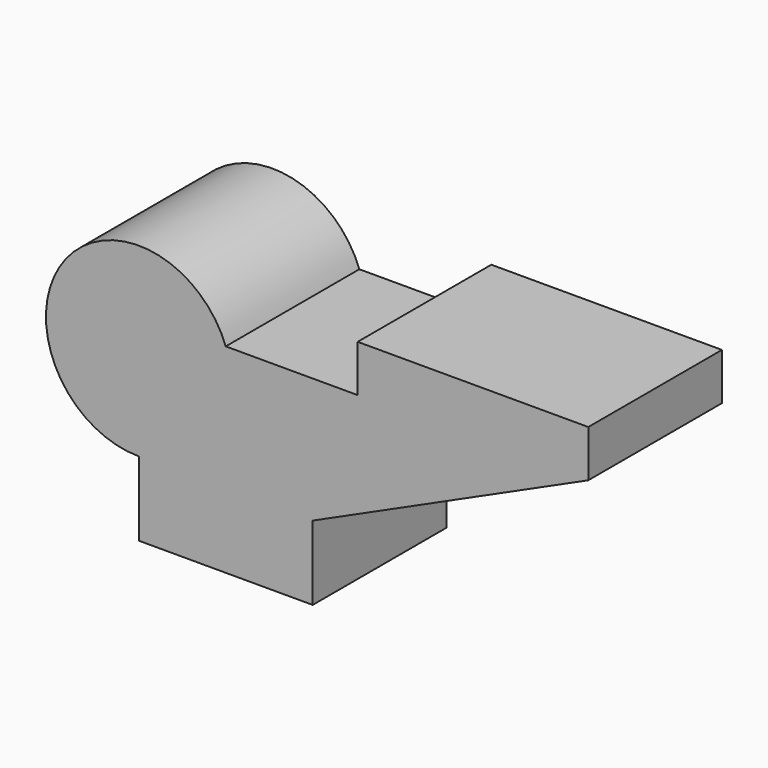
from build123d import *

# Parameters (mm, degrees)
F0_W     = 79.356328
F0_H     = 33.882484
F0_W_2   = 105.214015
F0_H_2   = 21.399438
F1_DEPTH = 38.1


with BuildPart() as f1:
    # F0 (on Front) → F1 (new body, symmetric)
    with BuildSketch(Plane.XZ):
        Rectangle(F0_W, F0_H)
        with BuildLine():
            ThreePointArc((0, 74.006468), (-74.43013, 83.431692), (-39.678164, 16.941242))
            Line((-39.678164, 16.941242), (39.678164, 16.941242))
            Line((39.678164, 16.941242), (165.401873, 74.006468))
            Line((165.401873, 74.006468), (60.187858, 74.006468))
            Line((60.187858, 74.006468), (0, 74.006468))
        make_face()
        with Locations((112.794866, 84.706187)):
            Rectangle(F0_W_2, F0_H_2)
    extrude(amount=F1_DEPTH, both=True)


solid = f1.part
